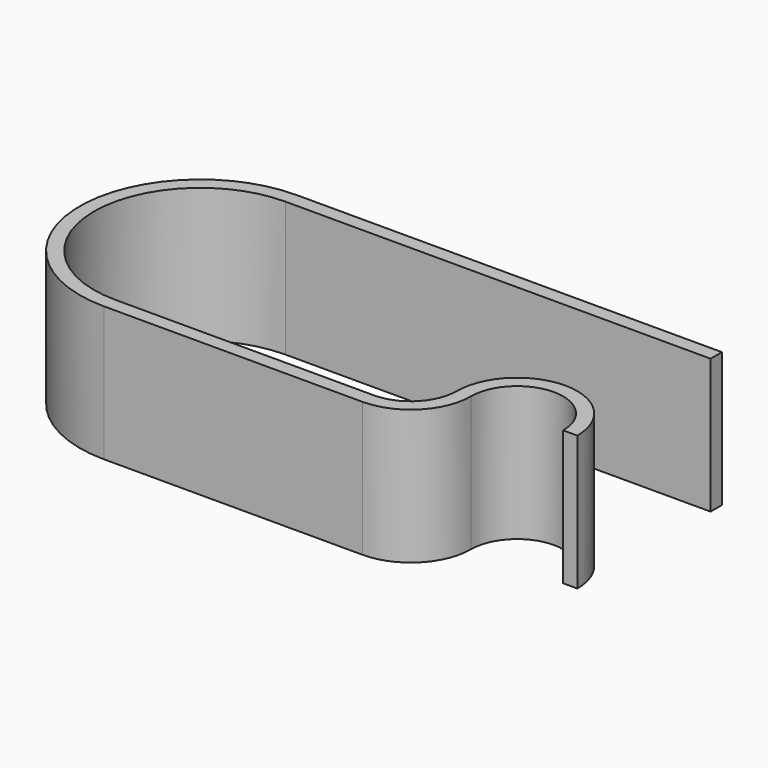
from build123d import *

# Parameters (mm, degrees)
PAD_DEPTH = 19


with BuildPart() as part:
    # Sketch → Pad (new body)
    with BuildSketch(Plane.XY):
        with BuildLine():
            Line((0, 0), (-60, 0))
            ThreePointArc((-60, 0), (-75, -15), (-60, -30))
            Line((-60, -30), (-23.5, -30))
            ThreePointArc((-23.5, -30), (-18.903806, -28.096194), (-17, -23.5))
            ThreePointArc((0, -23.5), (-8.5, -15), (-17, -23.5))
            Line((0, -23.5), (-2, -23.5))
            ThreePointArc((-2, -23.5), (-8.5, -17), (-15, -23.5))
            ThreePointArc((-23.5, -32), (-17.489592, -29.510408), (-15, -23.5))
            Line((-60, -32), (-23.5, -32))
            ThreePointArc((-60, 2), (-77, -15), (-60, -32))
            Line((-60, 2), (0, 2))
            Line((0, 2), (0, 0))
        make_face()
    extrude(amount=PAD_DEPTH)


solid = part.part
